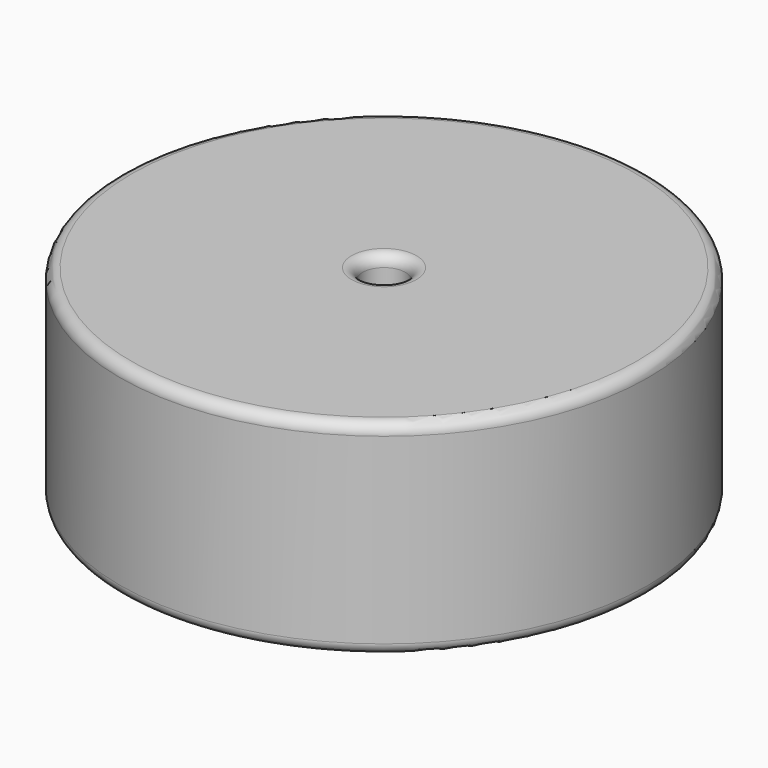
from build123d import *


with BuildPart() as f1:
    # F0 (on Front) → F1 (revolve)
    with BuildSketch(Plane.XZ):
        with BuildLine():
            Line((59.683207, 46.922088), (-66.814225, 46.922088))
            ThreePointArc((-66.814225, 46.922088), (-71.304353, 45.062216), (-73.164225, 40.572088))
            Line((-73.164225, 40.572088), (-73.164225, -64.24706))
            ThreePointArc((-73.164225, -64.24706), (-71.304353, -68.737188), (-66.814225, -70.59706))
            Line((-66.814225, -70.59706), (59.683207, -70.59706))
            ThreePointArc((59.683207, -70.59706), (64.173335, -68.737188), (66.033207, -64.24706))
            Line((66.033207, -64.24706), (66.033207, 40.572088))
            ThreePointArc((66.033207, 40.572088), (64.173335, 45.062216), (59.683207, 46.922088))
        make_face()
    revolve(axis=Axis((78.298554, 0, -9.555561), (0, 0, -1)))


solid = f1.part
